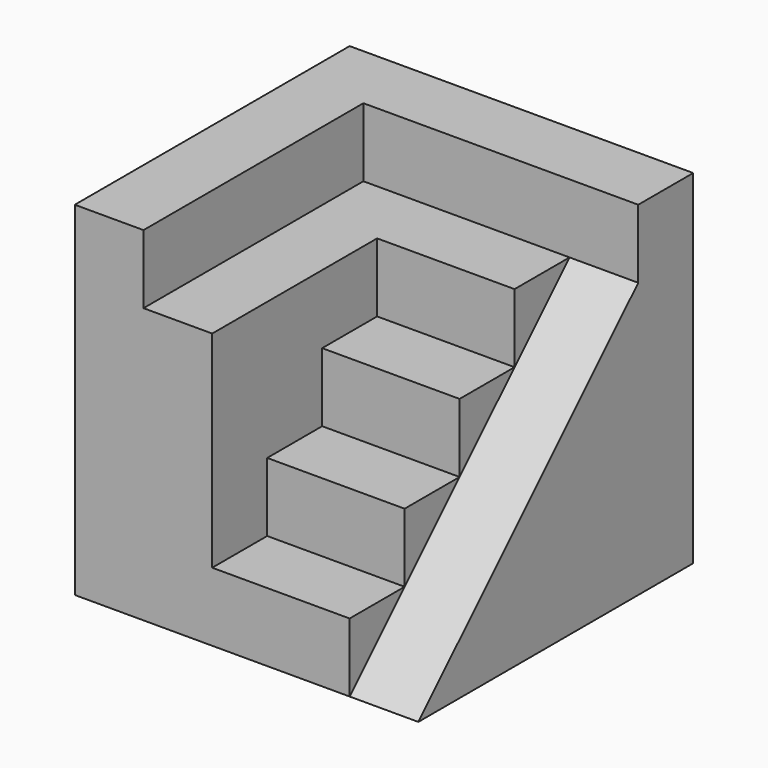
from build123d import *

# Parameters (mm, degrees)
F1_DEPTH = 400
F0_W     = 160
F0_H     = 80
F2_DEPTH = 80
F3_DEPTH = 160
F4_DEPTH = 240
F5_DEPTH = 320
F6_DEPTH = 320
F8_DEPTH = 80


with BuildPart() as f1:
    # F0 (on Top) → F1 (new body)
    with BuildSketch(Plane.XY):
        Polygon((200, 200), (-200, 200), (-200, -200), (-120, -200), (-120, 120), (120, 120), (200, 120), align=None)
    extrude(amount=F1_DEPTH)



with BuildPart() as f2:
    # F0 (on Top) → F2 (new body)
    with BuildSketch(Plane.XY):
        with Locations((40, -160)):
            Rectangle(F0_W, F0_H)
    extrude(amount=F2_DEPTH)

    # F0 (on Top) → F3 (join)
    with BuildSketch(Plane.XY):
        with Locations((40, -80)):
            Rectangle(F0_W, F0_H)
    extrude(amount=F3_DEPTH)

    # F0 (on Top) → F4 (join)
    with BuildSketch(Plane.XY):
        with Locations((40, 0)):
            Rectangle(F0_W, F0_H)
    extrude(amount=F4_DEPTH)


with BuildPart() as f1_1:
    add(f1.part)

    add(f2.part)  # F5 merges F2
    # F0 (on Top) → F5 (join)
    with BuildSketch(Plane.XY):
        Polygon((-120, 120), (-120, -200), (-40, -200), (-40, -120), (-40, -40), (-40, 40), (120, 40), (120, 120), align=None)
    extrude(amount=F5_DEPTH)

    # F0 (on Top) → F6 (join)
    with BuildSketch(Plane.XY):
        Polygon((200, -200), (200, 120), (120, 120), (120, 40), (120, -40), (120, -120), (120, -200), align=None)
    extrude(amount=F6_DEPTH)

    # F7 (on face) → F8 (cut)
    with BuildSketch(Plane.YZ.offset(200)):
        Polygon((-200, 0), (120, 320), (-200, 320), align=None)
    extrude(amount=-F8_DEPTH, mode=Mode.SUBTRACT)


solid = f1_1.part
